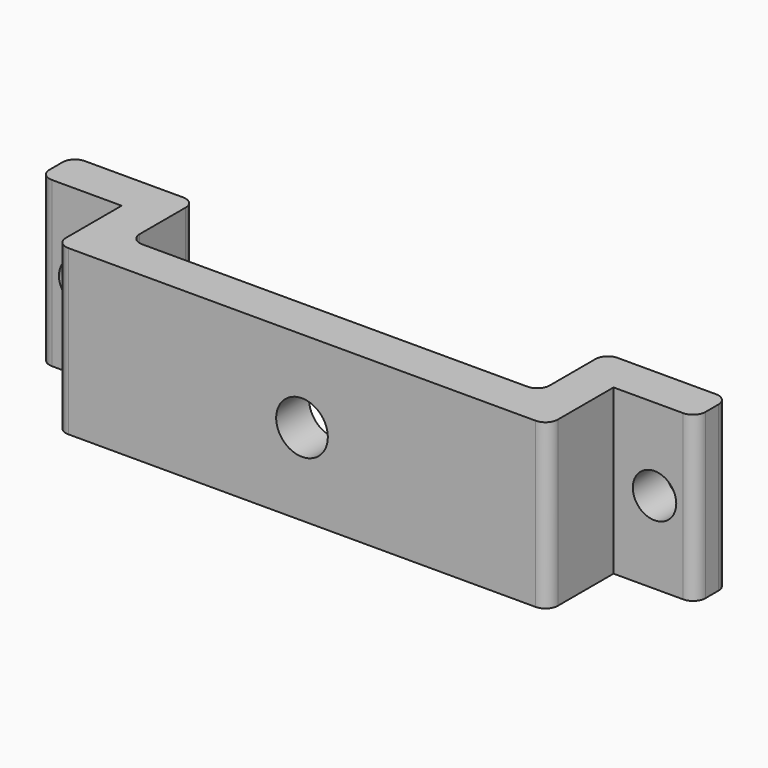
from build123d import *

# Parameters (mm, degrees)
F0_W     = 10
F0_H     = 5
F1_DEPTH = 20
F2_R     = 3.15
F3_DEPTH = 25
F4_R     = 2.65
F5_DEPTH = 25
F6_R     = 1.5


with BuildPart() as f1:
    # F0 (on Top) → F1 (new body)
    with BuildSketch(Plane.XY):
        with Locations((-35, 5)):
            Rectangle(F0_W, F0_H)
        Polygon((30, 2.5), (30, 7.5), (25, 7.5), (25, -2.5), (-25, -2.5), (-25, 7.5), (-30, 7.5), (-30, 2.5), (-30, -7.5), (30, -7.5), align=None)
        with Locations((35, 5)):
            Rectangle(F0_W, F0_H)
    extrude(amount=F1_DEPTH)

    # F2 (on face) → F3 (cut)
    with BuildSketch(Plane.XZ.offset(7.5)):
        with Locations((0, 10)):
            Circle(F2_R)
    extrude(amount=-F3_DEPTH, mode=Mode.SUBTRACT)

    # F4 (on face) → F5 (cut)
    with BuildSketch(Plane.XZ.offset(-2.5)):
        with Locations((-35, 10)):
            Circle(F4_R)
        with Locations((35, 10)):
            Circle(F4_R)
    extrude(amount=-F5_DEPTH, mode=Mode.SUBTRACT)

    # F6
    f6_edges = [f1.edges().sort_by_distance(p)[0] for p in [
        (-25, -2.5, 10),
        (25, -2.5, 10),
        (40, 7.5, 10),
        (40, 2.5, 10),
        (30, -7.5, 10),
        (-30, -7.5, 10),
        (-40, 2.5, 10),
        (-40, 7.5, 10),
        (-25, 7.5, 10),
        (25, 7.5, 10),
    ]]
    fillet(f6_edges, radius=F6_R)


solid = f1.part
